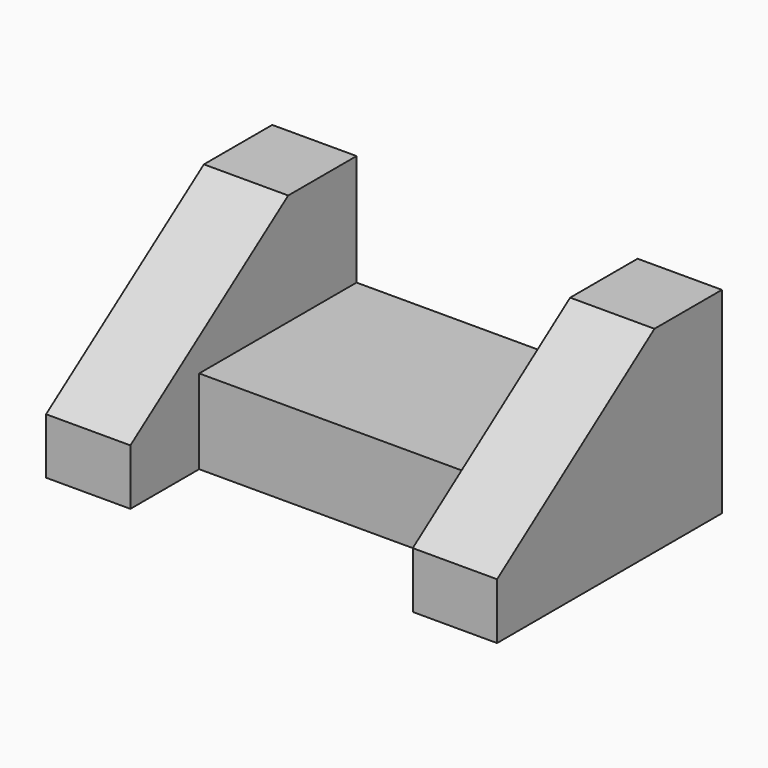
from build123d import *

# Parameters (mm, degrees)
F1_DEPTH = 19.05
F2_W     = 44.45
F2_H     = 19.05
F3_DEPTH = 63.5
F5_DEPTH = 19.05


with BuildPart() as f1:
    # F0 (on Right) → F1 (new body)
    with BuildSketch(Plane.YZ):
        Polygon((-63.5, 0), (0, 0), (0, 44.45), (-19.05, 44.45), (-63.5, 12.7), align=None)
    extrude(amount=F1_DEPTH)

    # F2 (on face) → F3 (join)
    with BuildSketch(Plane(origin=(0, 0, 0), x_dir=(0, -1, 0), z_dir=(-1, 0, 0))):
        with Locations((22.225, 9.525)):
            Rectangle(F2_W, F2_H)
    extrude(amount=F3_DEPTH)

    # F4 (on face) → F5 (join)
    with BuildSketch(Plane(origin=(-63.5, 0, 0), x_dir=(0, -1, 0), z_dir=(-1, 0, 0))):
        Polygon((0, 44.214059), (0, 0), (63.867629, 0), (63.867629, 12.631163), (19.30066, 44.214059), align=None)
    extrude(amount=F5_DEPTH)


solid = f1.part
